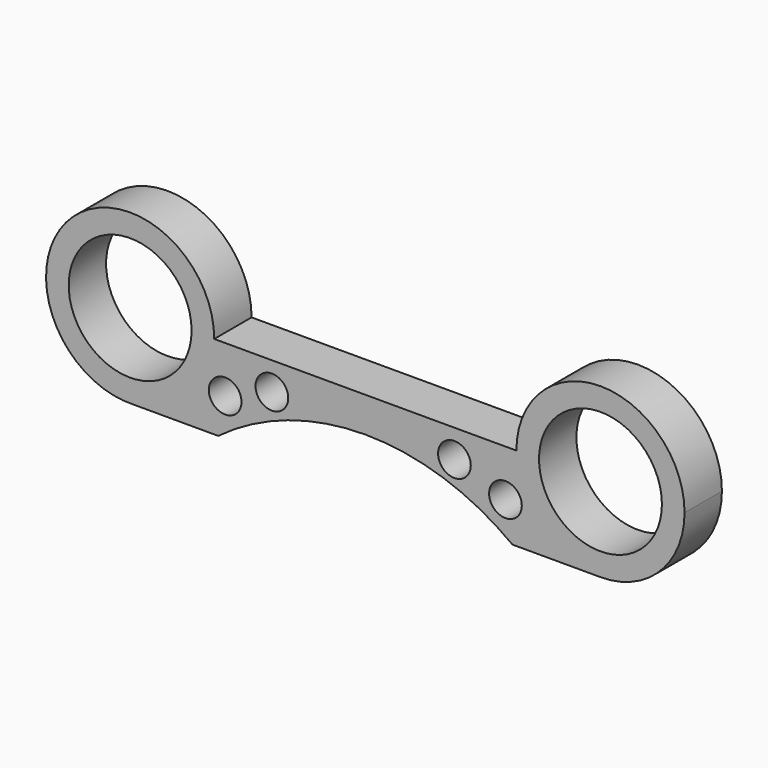
from build123d import *

# Parameters (mm, degrees)
F1_DEPTH = 10
F2_R     = 13.15
F3_DEPTH = 25
F5_DEPTH = 10.001
F6_R     = 3.5
F7_DEPTH = 10.001


with BuildPart() as f1:
    # F0 (on Front) → F1 (new body)
    with BuildSketch(Plane.XZ):
        with BuildLine():
            ThreePointArc((-49.6601038214, -17.9870707453), (-37.3753775975, -12.4844275463), (-32.3422225816, 0))
            ThreePointArc((-32.3422225816, 0), (-63.3090675656, 12.4844275463), (-49.6601038214, -17.9870707453))
        make_face()
        with BuildLine():
            Line((32.3422225816, 0), (-32.3422225816, 0))
            ThreePointArc((-32.3422225816, 0), (-37.3753775975, -12.4844275463), (-49.6601038214, -17.9870707453))
            Line((-49.6601038214, -17.9870707453), (50.3398953428, -17.9999998496))
            ThreePointArc((50.3398953428, -17.9999998496), (37.6134777436, -12.7270992316), (32.3422225816, 0))
        make_face()
        with BuildLine():
            ThreePointArc((68.3422225816, 0), (50.3422225816, 18), (32.3422225816, 0))
            ThreePointArc((32.3422225816, 0), (37.6134777436, -12.7270992316), (50.3398953428, -17.9999998496))
            ThreePointArc((50.3398953428, -17.9999998496), (63.0693218132, -12.7287448379), (68.3422225816, 0))
        make_face()
    extrude(amount=F1_DEPTH)

    # F2 (on face) → F3 (cut)
    with BuildSketch(Plane.XZ.offset(10)):
        with Locations((-50.3422225816, 0)):
            Circle(F2_R)
        with Locations((50.3422225816, 0)):
            Circle(F2_R)
    extrude(amount=-F3_DEPTH, mode=Mode.SUBTRACT)

    # F4 (on face) → F5 (cut, through all)
    with BuildSketch(Plane.XZ.offset(10)):
        with BuildLine():
            ThreePointArc((31.4967512046, -17.9975635998), (16.6000314606, -10.1934848087), (0, -7.5))
            Line((0, -7.5), (0, -17.993491352))
            Line((0, -17.993491352), (31.4967512046, -17.9975635998))
        make_face()
        with BuildLine():
            Line((0, -17.993491352), (0, -7.5))
            ThreePointArc((0, -7.5), (-16.5935917856, -10.1913389896), (-31.4858890741, -17.9894205085))
            Line((-31.4858890741, -17.9894205085), (0, -17.993491352))
        make_face()
    extrude(amount=-F5_DEPTH, mode=Mode.SUBTRACT)

    # F6 (on face) → F7 (cut, through all)
    with BuildSketch(Plane.XZ.offset(10)):
        with Locations((-30, -9.9896125538)):
            Circle(F6_R)
        with Locations((-20, -6)):
            Circle(F6_R)
        with Locations((19.0787840283, -6)):
            Circle(F6_R)
        with Locations((30, -9.9973700164)):
            Circle(F6_R)
    extrude(amount=-F7_DEPTH, mode=Mode.SUBTRACT)


solid = f1.part
